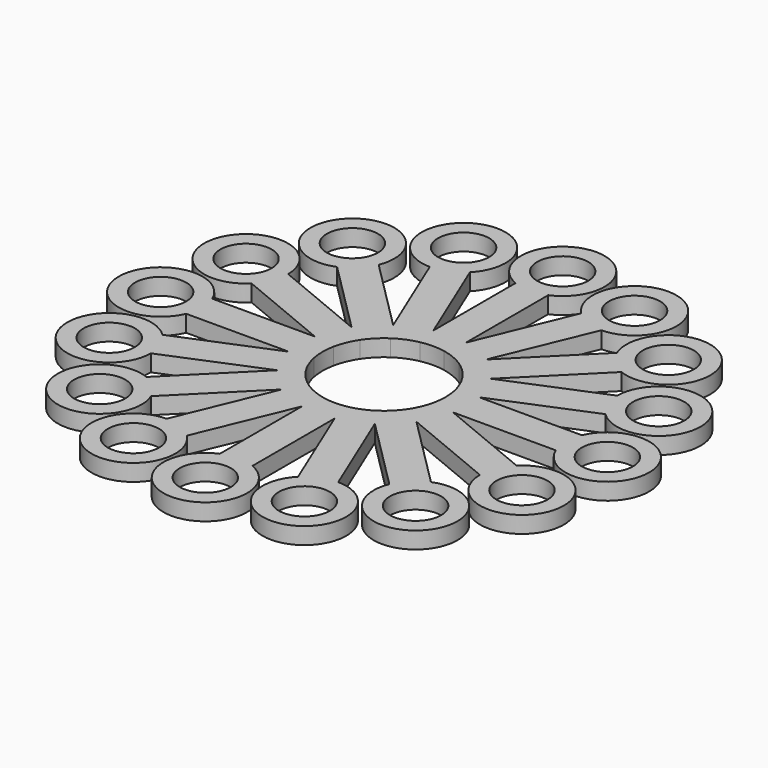
from build123d import *

# Parameters (mm, degrees)
F0_R     = 4.58
F1_DEPTH = 3


with BuildPart() as f1:
    # F0 (on Top) → F1 (new body)
    with BuildSketch(Plane.XY):
        with BuildLine():
            Line((14.711779, -2.926355), (33.094463, -2.926355))
            ThreePointArc((33.094463, -2.926355), (47.5, 0), (33.094463, 2.926355))
            Line((33.094463, 2.926355), (14.711779, 2.926355))
            Line((14.711779, 2.926355), (31.695164, 9.961103))
            ThreePointArc((31.695164, 9.961103), (43.884278, 18.177463), (29.455429, 15.368302))
            Line((29.455429, 15.368302), (12.472044, 8.333553))
            Line((12.472044, 8.333553), (25.470564, 21.332074))
            ThreePointArc((25.470564, 21.332074), (33.587572, 33.587572), (21.332074, 25.470564))
            Line((21.332074, 25.470564), (8.333553, 12.472044))
            Line((8.333553, 12.472044), (15.368302, 29.455429))
            ThreePointArc((15.368302, 29.455429), (18.177463, 43.884278), (9.961103, 31.695164))
            Line((9.961103, 31.695164), (2.926355, 14.711779))
            Line((2.926355, 14.711779), (2.926355, 33.094463))
            ThreePointArc((2.926355, 33.094463), (0, 47.5), (-2.926355, 33.094463))
            Line((-2.926355, 33.094463), (-2.926355, 14.711779))
            Line((-2.926355, 14.711779), (-9.961103, 31.695164))
            ThreePointArc((-9.961103, 31.695164), (-18.177463, 43.884278), (-15.368302, 29.455429))
            Line((-15.368302, 29.455429), (-8.333553, 12.472044))
            Line((-8.333553, 12.472044), (-21.332074, 25.470564))
            ThreePointArc((-21.332074, 25.470564), (-33.587572, 33.587572), (-25.470564, 21.332074))
            Line((-25.470564, 21.332074), (-12.472044, 8.333553))
            Line((-12.472044, 8.333553), (-29.455429, 15.368302))
            ThreePointArc((-29.455429, 15.368302), (-43.884278, 18.177463), (-31.695164, 9.961103))
            Line((-31.695164, 9.961103), (-14.711779, 2.926355))
            Line((-14.711779, 2.926355), (-33.094463, 2.926355))
            ThreePointArc((-33.094463, 2.926355), (-47.5, 0), (-33.094463, -2.926355))
            Line((-33.094463, -2.926355), (-14.711779, -2.926355))
            Line((-14.711779, -2.926355), (-31.695164, -9.961103))
            ThreePointArc((-31.695164, -9.961103), (-43.884278, -18.177463), (-29.455429, -15.368302))
            Line((-29.455429, -15.368302), (-12.472044, -8.333553))
            Line((-12.472044, -8.333553), (-25.470564, -21.332074))
            ThreePointArc((-25.470564, -21.332074), (-33.587572, -33.587572), (-21.332074, -25.470564))
            Line((-21.332074, -25.470564), (-8.333553, -12.472044))
            Line((-8.333553, -12.472044), (-15.368302, -29.455429))
            ThreePointArc((-15.368302, -29.455429), (-18.177463, -43.884278), (-9.961103, -31.695164))
            Line((-9.961103, -31.695164), (-2.926355, -14.711779))
            Line((-2.926355, -14.711779), (-2.926355, -33.094463))
            ThreePointArc((-2.926355, -33.094463), (0, -47.5), (2.926355, -33.094463))
            Line((2.926355, -33.094463), (2.926355, -14.711779))
            Line((2.926355, -14.711779), (9.961103, -31.695164))
            ThreePointArc((9.961103, -31.695164), (18.177463, -43.884278), (15.368302, -29.455429))
            Line((15.368302, -29.455429), (8.333553, -12.472044))
            Line((8.333553, -12.472044), (21.332074, -25.470564))
            ThreePointArc((21.332074, -25.470564), (33.587572, -33.587572), (25.470564, -21.332074))
            Line((25.470564, -21.332074), (12.472044, -8.333553))
            Line((12.472044, -8.333553), (29.455429, -15.368302))
            ThreePointArc((29.455429, -15.368302), (43.884278, -18.177463), (31.695164, -9.961103))
            Line((31.695164, -9.961103), (14.711779, -2.926355))
        make_face()
        with Locations((-28.284271, -28.284271)):
            Circle(F0_R, mode=Mode.SUBTRACT)
        with Locations((-15.307337, -36.955181)):
            Circle(F0_R, mode=Mode.SUBTRACT)
        with Locations((-36.955181, -15.307337)):
            Circle(F0_R, mode=Mode.SUBTRACT)
        with Locations((0, -40)):
            Circle(F0_R, mode=Mode.SUBTRACT)
        with Locations((15.307337, -36.955181)):
            Circle(F0_R, mode=Mode.SUBTRACT)
        with Locations((28.284271, -28.284271)):
            Circle(F0_R, mode=Mode.SUBTRACT)
        with Locations((36.955181, -15.307337)):
            Circle(F0_R, mode=Mode.SUBTRACT)
        with Locations((-40, 0)):
            Circle(F0_R, mode=Mode.SUBTRACT)
        with Locations((-36.955181, 15.307337)):
            Circle(F0_R, mode=Mode.SUBTRACT)
        with Locations((-28.284271, 28.284271)):
            Circle(F0_R, mode=Mode.SUBTRACT)
        with Locations((-15.307337, 36.955181)):
            Circle(F0_R, mode=Mode.SUBTRACT)
        with BuildLine():
            ThreePointArc((10.788638, 2.145994), (11, 0), (10.788638, -2.145994))
            ThreePointArc((10.788638, -2.145994), (10.162675, -4.209518), (9.146166, -6.111273))
            ThreePointArc((9.146166, -6.111273), (7.778175, -7.778175), (6.111273, -9.146166))
            ThreePointArc((6.111273, -9.146166), (4.209518, -10.162675), (2.145994, -10.788638))
            ThreePointArc((2.145994, -10.788638), (0, -11), (-2.145994, -10.788638))
            ThreePointArc((-2.145994, -10.788638), (-4.209518, -10.162675), (-6.111273, -9.146166))
            ThreePointArc((-6.111273, -9.146166), (-7.778175, -7.778175), (-9.146166, -6.111273))
            ThreePointArc((-9.146166, -6.111273), (-10.162675, -4.209518), (-10.788638, -2.145994))
            ThreePointArc((-10.788638, -2.145994), (-11, 0), (-10.788638, 2.145994))
            ThreePointArc((-10.788638, 2.145994), (-10.162675, 4.209518), (-9.146166, 6.111273))
            ThreePointArc((-9.146166, 6.111273), (-7.778175, 7.778175), (-6.111273, 9.146166))
            ThreePointArc((-6.111273, 9.146166), (-4.209518, 10.162675), (-2.145994, 10.788638))
            ThreePointArc((-2.145994, 10.788638), (0, 11), (2.145994, 10.788638))
            ThreePointArc((2.145994, 10.788638), (4.209518, 10.162675), (6.111273, 9.146166))
            ThreePointArc((6.111273, 9.146166), (7.778175, 7.778175), (9.146166, 6.111273))
            ThreePointArc((9.146166, 6.111273), (10.162675, 4.209518), (10.788638, 2.145994))
        make_face(mode=Mode.SUBTRACT)
        with Locations((40, 0)):
            Circle(F0_R, mode=Mode.SUBTRACT)
        with Locations((36.955181, 15.307337)):
            Circle(F0_R, mode=Mode.SUBTRACT)
        with Locations((0, 40)):
            Circle(F0_R, mode=Mode.SUBTRACT)
        with Locations((15.307337, 36.955181)):
            Circle(F0_R, mode=Mode.SUBTRACT)
        with Locations((28.284271, 28.284271)):
            Circle(F0_R, mode=Mode.SUBTRACT)
    extrude(amount=F1_DEPTH)


solid = f1.part
